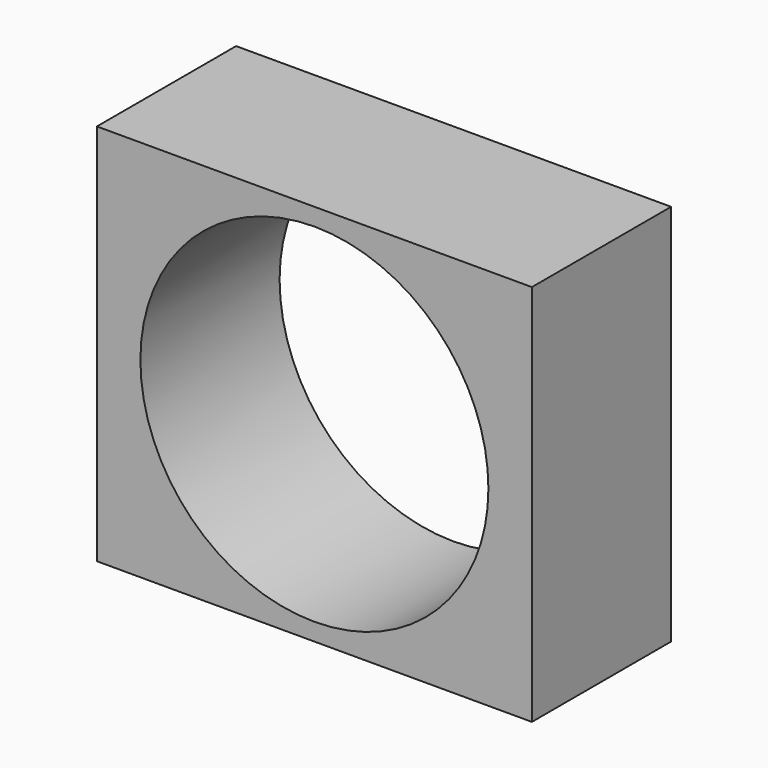
from build123d import *

# Parameters (mm, degrees)
F0_W     = 25
F0_H     = 22
F0_R     = 10
F1_DEPTH = 10


with BuildPart() as f1:
    # F0 (on Front) → F1 (new body)
    with BuildSketch(Plane.XZ):
        Rectangle(F0_W, F0_H)
        Circle(F0_R, mode=Mode.SUBTRACT)
    extrude(amount=-F1_DEPTH)


solid = f1.part
